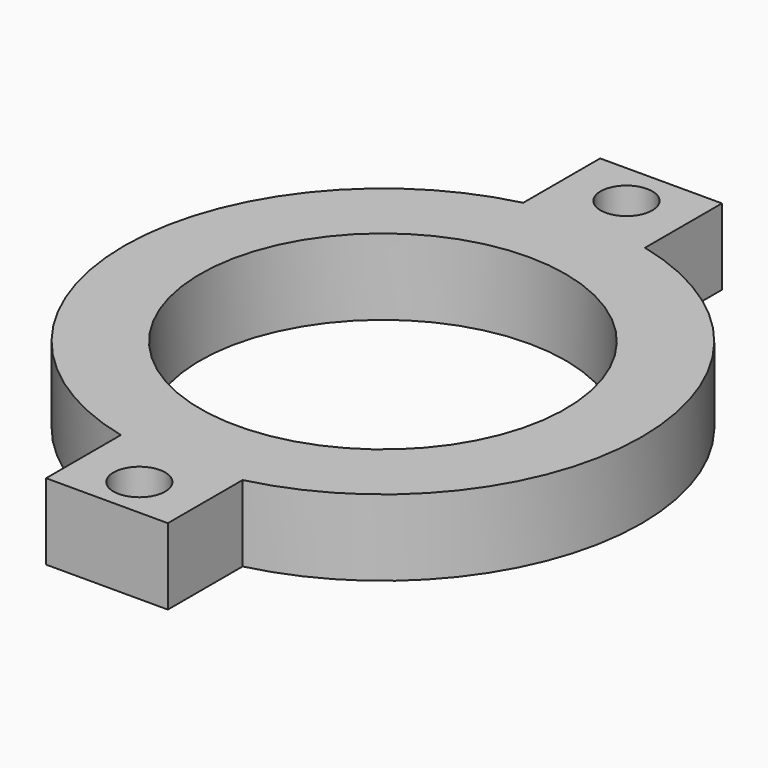
from build123d import *

# Parameters (mm, degrees)
CYLINDER_R          = 2
CYLINDER_DEPTH      = 10
CYLINDER098_R       = 1.7
CYLINDER098_DEPTH   = 14
CYLINDER097_R       = 12
CYLINDER097_DEPTH   = 33
CYLINDER099_R       = 1.7
CYLINDER099_DEPTH   = 14
BOX017_W            = 45.5
BOX017_H            = 8
BOX017_DEPTH        = 5
CYLINDER096_R       = 17
CYLINDER096_DEPTH   = 5
CUT_PLACEMENT_ANGLE = 90


with BuildPart() as cylinder:
    # Cylinder → Cylinder (new body)
    with BuildSketch(Plane(origin=(0, 57, 0), x_dir=(1, 0, 0), z_dir=(0, 0, 1))):
        Circle(CYLINDER_R)
    extrude(amount=CYLINDER_DEPTH)


with BuildPart() as obj1:
    # Cylinder098 → Cylinder098 (new body)
    with BuildSketch(Plane(origin=(53.66, 148, -15), x_dir=(1, 0, 0), z_dir=(0, 0, 1))):
        Circle(CYLINDER098_R)
    extrude(amount=CYLINDER098_DEPTH)


with BuildPart() as obj2:
    # Cylinder097 → Cylinder097 (new body)
    with BuildSketch(Plane(origin=(73.66, 148, -10), x_dir=(1, 0, 0), z_dir=(0, 0, 1))):
        Circle(CYLINDER097_R)
    extrude(amount=CYLINDER097_DEPTH)


with BuildPart() as fusion041:
    # Cylinder099 → Cylinder099 (new body)
    with BuildSketch(Plane(origin=(93.66, 148, -14), x_dir=(1, 0, 0), z_dir=(0, 0, 1))):
        Circle(CYLINDER099_R)
    extrude(amount=CYLINDER099_DEPTH)

    # Fusion041: union obj1, obj2
    add(obj1.part)
    add(obj2.part)


with BuildPart() as obj3:
    # Box017 → Box017 (new body)
    with BuildSketch(Plane(origin=(51, 144, -10), x_dir=(1, 0, 0), z_dir=(0, 0, 1))):
        with Locations((22.75, 4)):
            Rectangle(BOX017_W, BOX017_H)
    extrude(amount=BOX017_DEPTH)


with BuildPart() as cut:
    # Cylinder096 → Cylinder096 (new body)
    with BuildSketch(Plane(origin=(73.66, 148, -10), x_dir=(1, 0, 0), z_dir=(0, 0, 1))):
        Circle(CYLINDER096_R)
    extrude(amount=CYLINDER096_DEPTH)

    # Fusion042: union obj3
    add(obj3.part)

    # Cut011: cut Fusion041
    add(fusion041.part, mode=Mode.SUBTRACT)


with BuildPart() as cut_1:
    # Cut011 placement: moved
    add(cut.part.moved(Location((-73.66, -148, 2))))

    # Cut: cut Cylinder
    add(cylinder.part, mode=Mode.SUBTRACT)


with BuildPart() as cut_2:
    # Cut placement: moved
    add(cut_1.part.rotate(Axis((0, 0, 0), (0, 0, 1)), CUT_PLACEMENT_ANGLE))


solid = cut_2.part
